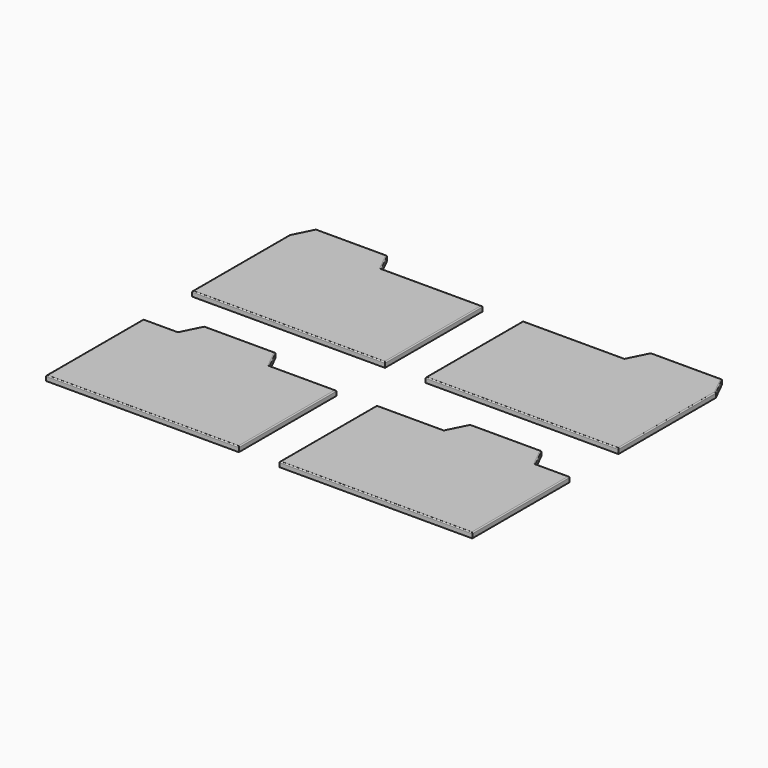
from build123d import *

# Parameters (mm, degrees)
F1_DEPTH = 2.5
F2_R     = 0.5
F2_2_R   = 0.5
F2_3_R   = 0.5
F2_4_R   = 0.5


with BuildPart() as f1:
    # F0 (on Top) → F1 (new body)
    with BuildSketch(Plane.XY):
        Polygon((47.5, -30), (47.5, 30), (-2.5, 30), (-47.5, 30), (-47.5, -30), align=None)
        Polygon((-47.5, 30), (-2.5, 30), (-7.5, 40), (-42.5, 40), align=None)
    extrude(amount=F1_DEPTH)

    # F2
    f2_edges = [f1.edges().sort_by_distance(p)[0] for p in [
        (-45, 35, 2.5),
        (-25, 40, 2.5),
        (-5, 35, 2.5),
        (22.5, 30, 2.5),
        (47.5, 0, 2.5),
        (0, -30, 2.5),
        (-47.5, 0, 2.5),
    ]]
    fillet(f2_edges, radius=F2_R)


with BuildPart() as f1b:
    # F0 (on Top) → F1, piece 2 (new body)
    with BuildSketch(Plane.XY):
        Polygon((157.5, 40), (122.5, 40), (117.5, 30), (162.5, 30), align=None)
        Polygon((162.5, 30), (117.5, 30), (67.5, 30), (67.5, -30), (162.5, -30), align=None)
    extrude(amount=F1_DEPTH)

    # F2#2
    f2_2_edges = [f1b.edges().sort_by_distance(p)[0] for p in [
        (67.5, 0, 2.5),
        (92.5, 30, 2.5),
        (120, 35, 2.5),
        (140, 40, 2.5),
        (160, 35, 2.5),
        (162.5, 0, 2.5),
        (115, -30, 2.5),
    ]]
    fillet(f2_2_edges, radius=F2_2_R)


with BuildPart() as f1c:
    # F0 (on Top) → F1, piece 3 (new body)
    with BuildSketch(Plane.XY):
        Polygon((-47.5, -60), (-47.5, -120), (47.5, -120), (47.5, -60), (14.5, -60), (-30.5, -60), align=None)
        Polygon((-25.5, -50), (-30.5, -60), (14.5, -60), (9.5, -50), align=None)
    extrude(amount=F1_DEPTH)

    # F2#3
    f2_3_edges = [f1c.edges().sort_by_distance(p)[0] for p in [
        (-47.5, -90, 2.5),
        (-39, -60, 2.5),
        (-28, -55, 2.5),
        (-8, -50, 2.5),
        (12, -55, 2.5),
        (31, -60, 2.5),
        (47.5, -90, 2.5),
        (0, -120, 2.5),
    ]]
    fillet(f2_3_edges, radius=F2_3_R)


with BuildPart() as f1d:
    # F0 (on Top) → F1, piece 4 (new body)
    with BuildSketch(Plane.XY):
        Polygon((67.5, -120), (162.5, -120), (162.5, -60), (145.5, -60), (100.5, -60), (67.5, -60), align=None)
        Polygon((100.5, -60), (145.5, -60), (140.5, -50), (105.5, -50), align=None)
    extrude(amount=F1_DEPTH)

    # F2#4
    f2_4_edges = [f1d.edges().sort_by_distance(p)[0] for p in [
        (67.5, -90, 2.5),
        (84, -60, 2.5),
        (103, -55, 2.5),
        (123, -50, 2.5),
        (143, -55, 2.5),
        (154, -60, 2.5),
        (162.5, -90, 2.5),
        (115, -120, 2.5),
    ]]
    fillet(f2_4_edges, radius=F2_4_R)


solid = Compound([f1.part, f1b.part, f1c.part, f1d.part])
